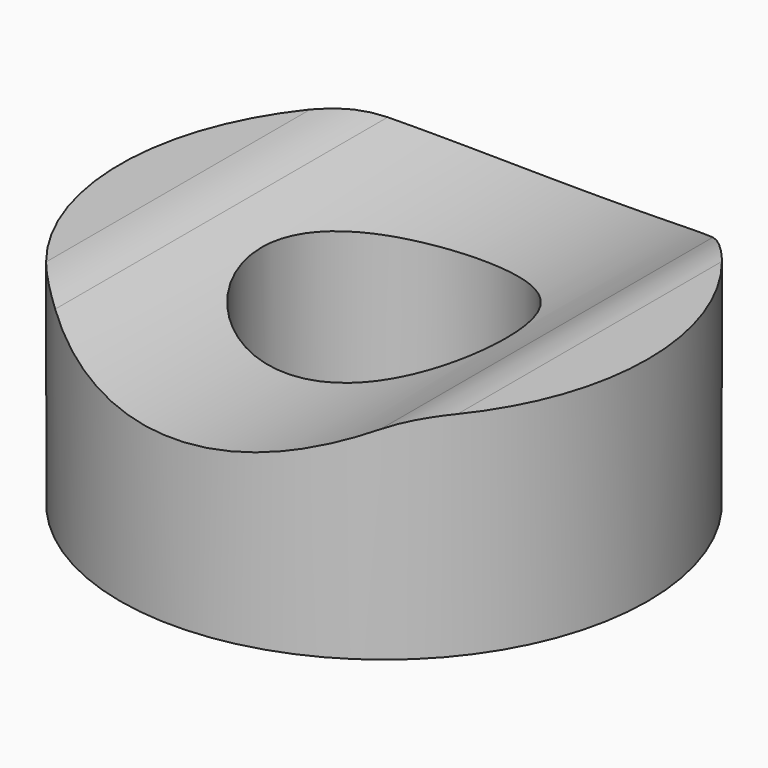
from build123d import *

# Parameters (mm, degrees)
F0_R          = 6.9215
F0_R_2        = 3.2131
F1_DEPTH      = 5.588
F3_DEPTH      = 6.9225
F3_DEPTH_BACK = 6.9225
F4_R          = 2.54


with BuildPart() as f1:
    # F0 (on Top) → F1 (new body)
    with BuildSketch(Plane.XY):
        Circle(F0_R)
        Circle(F0_R_2, mode=Mode.SUBTRACT)
    extrude(amount=F1_DEPTH)

    # F2 (on Front) → F3 (cut, two sides)
    with BuildSketch(Plane.XZ) as f3_sk:
        with BuildLine():
            Line((4.7625, 5.588), (-4.7625, 5.588))
            ThreePointArc((-4.7625, 5.588), (0, 4.318), (4.7625, 5.588))
        make_face()
    extrude(amount=-F3_DEPTH, mode=Mode.SUBTRACT)
    extrude(f3_sk.sketch, amount=F3_DEPTH_BACK, mode=Mode.SUBTRACT)

    # F4
    f4_edges = [f1.edges().sort_by_distance(p)[0] for p in [
        (-4.7625, 0, 5.588),
        (4.7625, 0, 5.588),
    ]]
    fillet(f4_edges, radius=F4_R)


solid = f1.part
